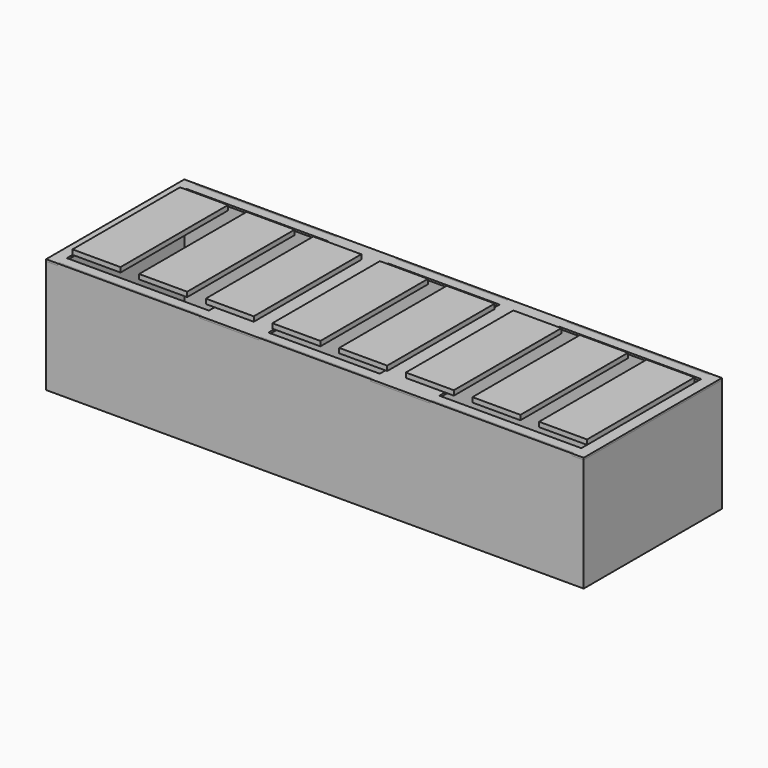
from build123d import *

# Parameters (mm, degrees)
F0_W     = 2800
F0_H     = 900
F0_W_2   = 2780
F0_H_2   = 880
F1_DEPTH = 600
F2_W     = 2800
F2_H     = 900
F3_DEPTH = 10
F4_W     = 740
F4_H     = 780
F4_W_2   = 580
F4_W_3   = 310
F4_H_2   = 10
F4_W_4   = 60
F5_DEPTH = 10
F6_W     = 250
F6_H     = 700
F7_DEPTH = 25


with BuildPart() as f1:
    # F0 (on Top) → F1 (new body)
    with BuildSketch(Plane.XY):
        Rectangle(F0_W, F0_H)
        Rectangle(F0_W_2, F0_H_2, mode=Mode.SUBTRACT)
    extrude(amount=F1_DEPTH)

    # F2 (on face) → F3 (join)
    with BuildSketch(Plane(origin=(0, 0, 0), x_dir=(1, 0, 0), z_dir=(0, 0, -1))):
        Rectangle(F2_W, F2_H)
    extrude(amount=-F3_DEPTH)


with BuildPart() as f5:
    # F4 (on face) → F5 (new body)
    with BuildSketch(Plane.XY.offset(600)):
        Polygon((-1400, 450), (-1400, -450), (-1340, -450), (-1340, -440), (-600, -440), (-290, -440), (290, -440), (600, -440), (1340, -440), (1400, -440), (1400, -390), (1400, 390), (1400, 440), (1340, 440), (600, 440), (290, 440), (-290, 440), (-600, 440), (-1340, 440), (-1340, 450), align=None)
        with Locations((-970, 0)):
            Rectangle(F4_W, F4_H, mode=Mode.SUBTRACT)
        Rectangle(F4_W_2, F4_H, mode=Mode.SUBTRACT)
        with Locations((970, 0)):
            Rectangle(F4_W, F4_H, mode=Mode.SUBTRACT)
        with Locations((-445, -445)):
            Rectangle(F4_W_3, F4_H_2)
        with Locations((-445, 445)):
            Rectangle(F4_W_3, F4_H_2)
        with Locations((445, -445)):
            Rectangle(F4_W_3, F4_H_2)
        with Locations((445, 445)):
            Rectangle(F4_W_3, F4_H_2)
        with Locations((1370, -445)):
            Rectangle(F4_W_4, F4_H_2)
        with Locations((1370, 445)):
            Rectangle(F4_W_4, F4_H_2)
    extrude(amount=-F5_DEPTH)


with BuildPart() as f7:
    # F6 (on face) → F7 (new body)
    with BuildSketch(Plane.XY.offset(600)):
        with Locations((-1215, -2.874115)):
            Rectangle(F6_W, F6_H)
        with Locations((-868, -2.874115)):
            Rectangle(F6_W, F6_H)
        with Locations((-521, -2.874115)):
            Rectangle(F6_W, F6_H)
        with Locations((-174, -2.874115)):
            Rectangle(F6_W, F6_H)
        with Locations((174, -2.874115)):
            Rectangle(F6_W, F6_H)
        with Locations((868, -2.874115)):
            Rectangle(F6_W, F6_H)
        with Locations((521, -2.874115)):
            Rectangle(F6_W, F6_H)
        with Locations((1215, -2.874115)):
            Rectangle(F6_W, F6_H)
    extrude(amount=F7_DEPTH)


solid = Compound([f1.part, f5.part, f7.part])
